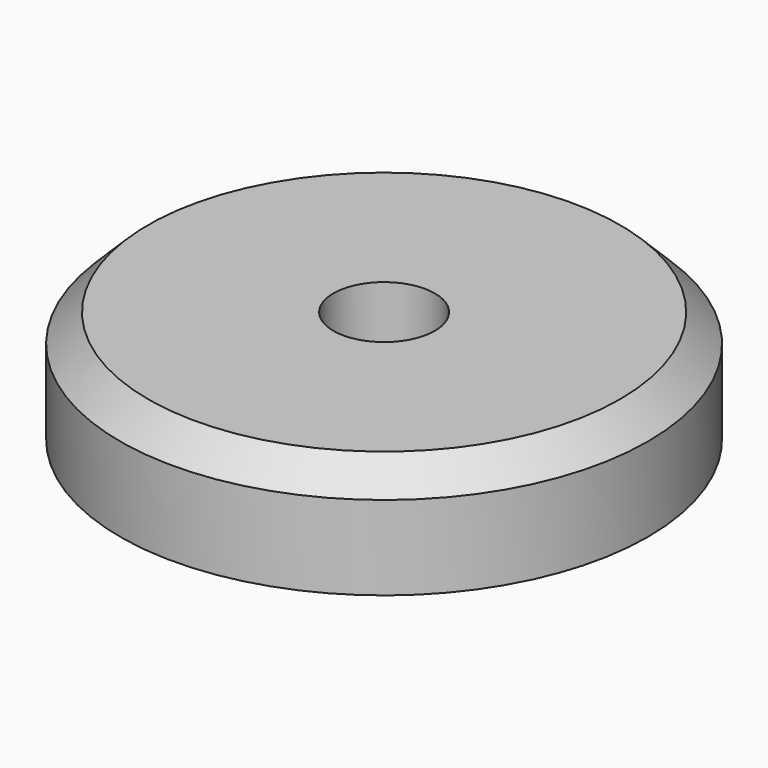
from build123d import *

# Parameters (mm, degrees)
F0_R     = 18.85
F0_R_2   = 3.625
F1_DEPTH = 8
F2_SIZE  = 2
F3_T     = -1.5


with BuildPart() as f1:
    # F0 (on Top) → F1 (new body)
    with BuildSketch(Plane.XY):
        Circle(F0_R)
        Circle(F0_R_2, mode=Mode.SUBTRACT)
    extrude(amount=F1_DEPTH)

    # F2
    f2_edges = [f1.edges().sort_by_distance(p)[0] for p in [
        (-18.85, 0, 8),
    ]]
    chamfer(f2_edges, length=F2_SIZE)

    # F3
    f3_openings = [f1.faces().sort_by_distance(p)[0] for p in [
        (-18.316841, 0, 0),
    ]]
    offset(amount=F3_T, openings=f3_openings)


solid = f1.part
